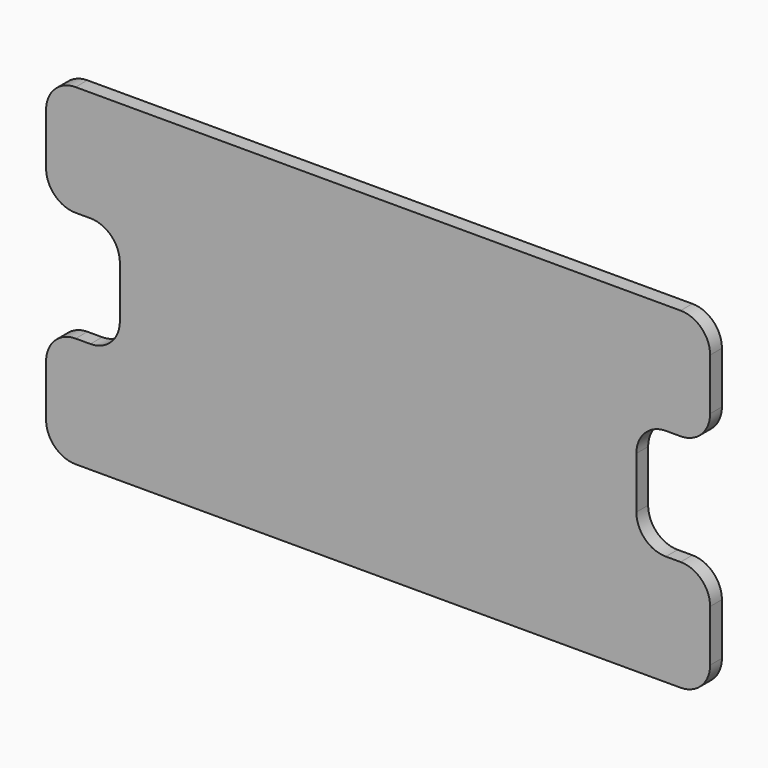
from build123d import *

# Parameters (mm, degrees)
F1_DEPTH = 2.54
F2_R     = 5.08


with BuildPart() as f1:
    # F0 (on Front) → F1 (new body)
    with BuildSketch(Plane.XZ):
        Polygon((61.660792, 36.013386), (61.660792, 55.063386), (-52.639208, 55.063386), (-52.639208, 36.013386), (-39.939208, 36.013386), (-39.939208, 16.963386), (-52.639208, 16.963386), (-52.639208, -2.086614), (61.660792, -2.086614), (61.660792, 16.963386), (48.960792, 16.963386), (48.960792, 36.013386), align=None)
    extrude(amount=F1_DEPTH)

    # F2
    f2_edges = [f1.edges().sort_by_distance(p)[0] for p in [
        (61.660792, -1.27, 55.063386),
        (61.660792, -1.27, 36.013386),
        (48.960792, -1.27, 36.013386),
        (48.960792, -1.27, 16.963386),
        (61.660792, -1.27, 16.963386),
        (61.660792, -1.27, -2.086614),
        (-39.939208, -1.27, 16.963386),
        (-39.939208, -1.27, 36.013386),
        (-52.639208, -1.27, 36.013386),
        (-52.639208, -1.27, 55.063386),
        (-52.639208, -1.27, 16.963386),
        (-52.639208, -1.27, -2.086614),
    ]]
    fillet(f2_edges, radius=F2_R)


solid = f1.part
